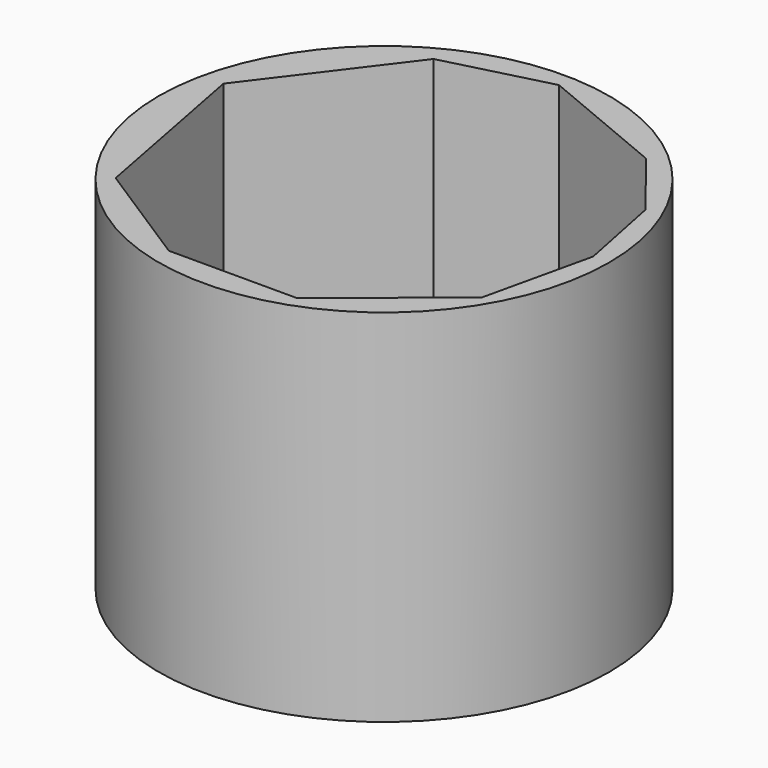
from build123d import *

# Parameters (mm, degrees)
F0_R     = 63.5
F1_DEPTH = 101.6
F2_DEPTH = 101.6
F3_DEPTH = 25.4
F4_DEPTH = 101.6


with BuildPart() as f1:
    # F0 (on Top) → F1 (new body)
    with BuildSketch(Plane.XY):
        Circle(F0_R)
        Polygon((-15.682541, -56.195769), (-46.46679, -36.447387), (-56.050561, 13.50441), (-27.299238, 51.549092), (2.032924, 59.099946), (38.915936, 43.707822), (54.017641, 24.540273), (58.954742, 0), (51.984716, -30.639039), (20.32922, -56.195769), align=None, mode=Mode.SUBTRACT)
    extrude(amount=F1_DEPTH)

    # F0 (on Top) → F2 (join)
    with BuildSketch(Plane.XY):
        Circle(F0_R)
        Polygon((-15.682541, -56.195769), (-46.46679, -36.447387), (-56.050561, 13.50441), (-27.299238, 51.549092), (2.032924, 59.099946), (38.915936, 43.707822), (54.017641, 24.540273), (58.954742, 0), (51.984716, -30.639039), (20.32922, -56.195769), align=None, mode=Mode.SUBTRACT)
    extrude(amount=F2_DEPTH)

    # F0 (on Top) → F3 (join)
    with BuildSketch(Plane.XY):
        Circle(F0_R)
        Polygon((-15.682541, -56.195769), (-46.46679, -36.447387), (-56.050561, 13.50441), (-27.299238, 51.549092), (2.032924, 59.099946), (38.915936, 43.707822), (54.017641, 24.540273), (58.954742, 0), (51.984716, -30.639039), (20.32922, -56.195769), align=None, mode=Mode.SUBTRACT)
    extrude(amount=F3_DEPTH)

    # F0 (on Top) → F4 (join)
    with BuildSketch(Plane.XY):
        Circle(F0_R)
        Polygon((-15.682541, -56.195769), (-46.46679, -36.447387), (-56.050561, 13.50441), (-27.299238, 51.549092), (2.032924, 59.099946), (38.915936, 43.707822), (54.017641, 24.540273), (58.954742, 0), (51.984716, -30.639039), (20.32922, -56.195769), align=None, mode=Mode.SUBTRACT)
    extrude(amount=F4_DEPTH)


solid = f1.part
